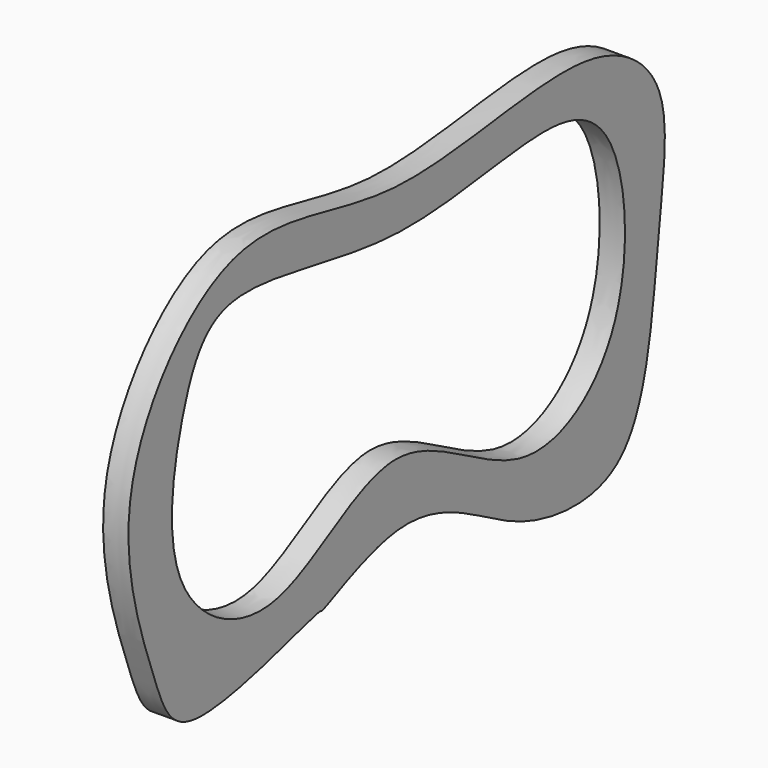
from build123d import *

# Parameters (mm, degrees)
F1_DEPTH = 15.24


with BuildPart() as f1:
    # F0 (on Right) → F1 (new body)
    with BuildSketch(Plane.YZ):
        with BuildLine():
            add(Edge.make_bspline(
                [(93.7216803432, -87.0080650258), (119.3409141688, -84.2657155333), (159.7122362428, -106.7190028029), (199.089605357, -128.4004420241), (279.892827885, -132.9143152639), (288.315888875, -8.5305939647), (302.8811447379, 69.3975489966), (235.560389815, 121.0035753562), (89.8844688973, 76.7467053791), (-31.4975260539, 136.7605833058), (-129.4946268079, 18.3059811786), (-89.4869548977, -89.1288956743), (-70.2114521695, -142.3756611553), (35.6108720418, -103.7709145606), (36.9702990682, -108.5541921777), (69.8178871342, -89.5667892883), (93.7216803432, -87.0080650258)],
                knots=[0, 0, 0, 0, 0.068595886, 0.1256423966, 0.1897352457, 0.2767186337, 0.349841325, 0.4163530053, 0.516600972, 0.6080470629, 0.6989526422, 0.7853886064, 0.8412743087, 0.9221896414, 0.9359972322, 1, 1, 1, 1], degree=3))
        make_face()
        with BuildLine():
            add(Edge.make_bspline(
                [(91.9785181332, -48.9080650258), (124.083632285, -48.473291406), (186.5661351828, -110.3745094692), (270.6667400076, -56.6054607007), (266.0893865286, 54.697793911), (213.0046018302, 90.7667882409), (93.7355296774, 54.5530178993), (-39.3865260322, 102.5981368934), (-70.3696745176, 43.1764175228), (-86.8655255926, -55.4971973201), (4.7502545969, -110.9144707256), (60.6826465062, -49.331879728), (91.9785181332, -48.9080650258)],
                knots=[0, 0, 0, 0, 0.1090464074, 0.2014973805, 0.3070178279, 0.382897091, 0.5009338081, 0.6210094571, 0.6975233174, 0.7996246927, 0.8937022198, 1, 1, 1, 1], degree=3))
        make_face(mode=Mode.SUBTRACT)
    extrude(amount=F1_DEPTH)


solid = f1.part
